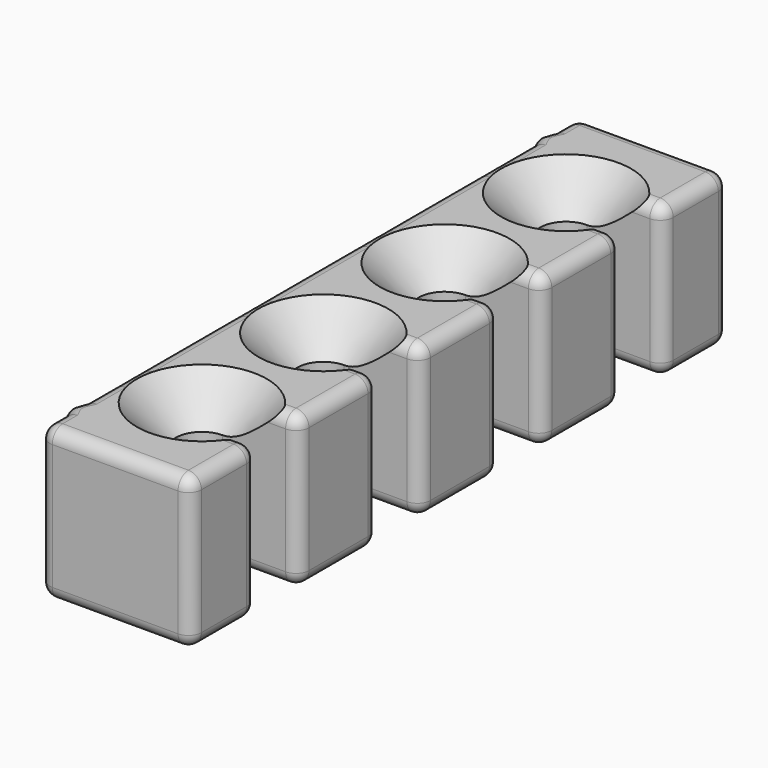
from build123d import *

# Parameters (mm, degrees)
BOX_W           = 35
BOX_H           = 155
BOX_DEPTH       = 35
SKETCH_R        = 15
POCKET_DEPTH    = 9
POCKET_TAPER    = 45
POCKET001_DEPTH = 35.001
TORUS_R         = 3
TORUS001_R      = 3
FILLET_R        = 3


with BuildPart() as part:
    # Box → Box (join)
    with BuildSketch(Plane.XY):
        with Locations((17.5, 77.5)):
            Rectangle(BOX_W, BOX_H)
    extrude(amount=BOX_DEPTH)

    # Sketch (on Face6 of Box) → Pocket (cut)
    with BuildSketch(Plane.XY.offset(35)):
        with Locations((17.5, 130)):
            Circle(SKETCH_R)
        with Locations((17.5, 95)):
            Circle(SKETCH_R)
        with Locations((17.5, 60)):
            Circle(SKETCH_R)
        with Locations((17.5, 25)):
            Circle(SKETCH_R)
    extrude(amount=-POCKET_DEPTH, taper=POCKET_TAPER, mode=Mode.SUBTRACT)

    # Sketch001 (on Face3 of Pocket) → Pocket001 (cut, through all)
    with BuildSketch(Plane.XY.offset(35)):
        with BuildLine():
            Line((17.499999, 136), (35, 136))
            Line((35, 136), (35, 124))
            Line((35, 124), (17.500001, 124))
            ThreePointArc((17.499999, 136), (11.5, 129.999999), (17.500001, 124))
        make_face()
        with BuildLine():
            Line((17.5, 101), (35, 101))
            Line((35, 101), (35, 89))
            Line((35, 89), (17.5, 89))
            ThreePointArc((17.5, 101), (11.5, 95), (17.5, 89))
        make_face()
        with BuildLine():
            Line((17.5, 66), (35, 66))
            Line((35, 66), (35, 54))
            Line((35, 54), (17.5, 54))
            ThreePointArc((17.5, 66), (11.5, 60), (17.5, 54))
        make_face()
        with BuildLine():
            Line((17.5, 31), (35, 31))
            Line((35, 31), (35, 19))
            Line((35, 19), (17.5, 19))
            ThreePointArc((17.5, 31), (11.5, 25), (17.5, 19))
        make_face()
    extrude(amount=-POCKET001_DEPTH, mode=Mode.SUBTRACT)

    # Torus → Torus (revolve, cut)
    with BuildSketch(Plane(origin=(-9, 10, 17.5), x_dir=(1, 0, 0), z_dir=(0, 0, -1))):
        with Locations((16, 0)):
            Circle(TORUS_R)
    revolve(axis=Axis((-9, 10, 17.5), (0, -1, 0)), mode=Mode.SUBTRACT)

    # Torus001 → Torus001 (revolve, cut)
    with BuildSketch(Plane(origin=(-9, 145, 17.5), x_dir=(1, 0, 0), z_dir=(0, 0, -1))):
        with Locations((16, 0)):
            Circle(TORUS001_R)
    revolve(axis=Axis((-9, 145, 17.5), (0, -1, 0)), mode=Mode.SUBTRACT)

    # Fillet
    fillet_edges = [part.edges().sort_by_distance(p)[0] for p in [
        (17.5, 0, 0),
        (35, 0, 17.5),
        (17.5, 0, 35),
        (0, 0, 17.5),
        (35, 9.5, 35),
        (35, 19, 17.5),
        (35, 9.5, 0),
        (35, 42.5, 35),
        (35, 54, 17.5),
        (35, 42.5, 0),
        (35, 31, 17.5),
        (35, 77.5, 35),
        (35, 89, 17.5),
        (35, 77.5, 0),
        (35, 66, 17.5),
        (35, 112.5, 35),
        (35, 124, 17.5),
        (35, 112.5, 0),
        (35, 101, 17.5),
        (35, 145.5, 35),
        (35, 155, 17.5),
        (35, 145.5, 0),
        (35, 136, 17.5),
        (17.5, 155, 0),
        (17.5, 155, 35),
        (0, 155, 17.5),
        (33.123864, 19, 35),
        (33.123864, 31, 35),
        (33.123864, 54, 35),
        (33.123864, 66, 35),
        (33.123864, 89, 35),
        (33.123864, 101, 35),
        (33.123864, 124, 35),
        (33.123864, 136, 35),
        (26.25, 31, 0),
        (26.25, 66, 0),
        (26.25, 101, 0),
        (26.25, 136, 0),
        (11.5, 129.999999, 0),
        (26.25, 124, 0),
        (11.5, 95, 0),
        (26.25, 89, 0),
        (11.5, 60, 0),
        (26.25, 54, 0),
        (11.5, 25, 0),
        (26.25, 19, 0),
        (0, 77.5, 35),
        (0, 77.5, 0),
    ]]
    fillet(fillet_edges, radius=FILLET_R)


solid = part.part
